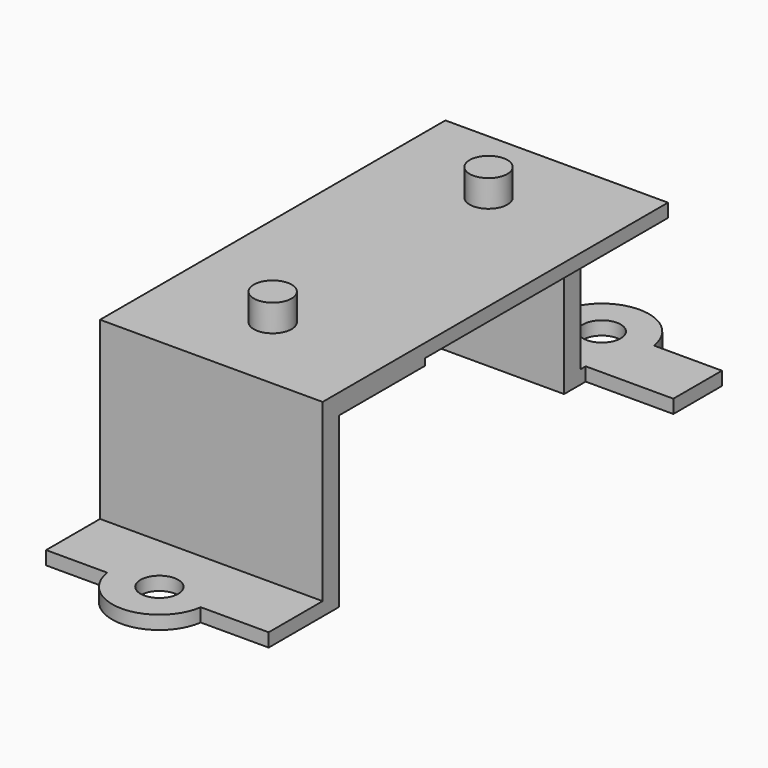
from build123d import *

# Parameters (mm, degrees)
CYLINDER100_R          = 1.5
CYLINDER100_DEPTH      = 10
CYLINDER103_R          = 1.5
CYLINDER103_DEPTH      = 5
CYLINDER104_R          = 1.5
CYLINDER104_DEPTH      = 10
CYLINDER102_R          = 3.5
CYLINDER102_DEPTH      = 5
BOX064_W               = 32
BOX064_H               = 13
BOX064_DEPTH           = 2
CYLINDER101_R          = 6.5
CYLINDER101_DEPTH      = 6
BOX063_W               = 23
BOX063_H               = 13
BOX063_DEPTH           = 24
CUT044_ROLL_ANGLE      = -90
CUT044_PLACEMENT_ANGLE = -90
CYLINDER086_R          = 1.4
CYLINDER086_DEPTH      = 4
BOX043_W               = 18
BOX043_H               = 29
BOX043_DEPTH           = 12.5
BOX044_W               = 18
BOX044_H               = 6
BOX044_DEPTH           = 17
BOX045_W               = 18
BOX045_H               = 6
BOX045_DEPTH           = 17
CYLINDER085_R          = 1.4
CYLINDER085_DEPTH      = 4
CYLINDER084_R          = 3.5
CYLINDER084_DEPTH      = 1
BOX042_W               = 16.5
BOX042_H               = 42
BOX042_DEPTH           = 14
CYLINDER021_R          = 1.4
CYLINDER021_DEPTH      = 2
CYLINDER022_R          = 1.4
CYLINDER022_DEPTH      = 2
BOX010_W               = 16
BOX010_H               = 32
BOX010_DEPTH           = 1
CYLINDER083_R          = 3.5
CYLINDER083_DEPTH      = 1


with BuildPart() as zylinder100:
    # Cylinder100 → Cylinder100 (new body)
    with BuildSketch(Plane(origin=(25.5, 6.5, 13), x_dir=(1, 0, 0), z_dir=(0, 0, 1))):
        Circle(CYLINDER100_R)
    extrude(amount=CYLINDER100_DEPTH)


with BuildPart() as zylinder103:
    # Cylinder103 → Cylinder103 (new body)
    with BuildSketch(Plane(origin=(16.5, 6.5, 30), x_dir=(1, 0, 0), z_dir=(0, 0, 1))):
        Circle(CYLINDER103_R)
    extrude(amount=CYLINDER103_DEPTH)


with BuildPart() as fusion061:
    # Cylinder104 → Cylinder104 (new body)
    with BuildSketch(Plane(origin=(-2.5, 6.5, 13), x_dir=(1, 0, 0), z_dir=(0, 0, 1))):
        Circle(CYLINDER104_R)
    extrude(amount=CYLINDER104_DEPTH)

    # Fusion061: union Zylinder100, Zylinder103
    add(zylinder100.part)
    add(zylinder103.part)


with BuildPart() as zylinder102:
    # Cylinder102 → Cylinder102 (new body)
    with BuildSketch(Plane(origin=(16.5, 6.5, 29), x_dir=(1, 0, 0), z_dir=(0, 0, 1))):
        Circle(CYLINDER102_R)
    extrude(amount=CYLINDER102_DEPTH)


with BuildPart() as obj1:
    # Box064 → Box064 (new body)
    with BuildSketch(Plane(origin=(-4.5, 0, 18), x_dir=(1, 0, 0), z_dir=(0, 0, 1))):
        with Locations((16, 6.5)):
            Rectangle(BOX064_W, BOX064_H)
    extrude(amount=BOX064_DEPTH)


with BuildPart() as zylinder101:
    # Cylinder101 → Cylinder101 (new body)
    with BuildSketch(Plane(origin=(16.5, 6.5, 23), x_dir=(1, 0, 0), z_dir=(0, 0, 1))):
        Circle(CYLINDER101_R)
    extrude(amount=CYLINDER101_DEPTH)


with BuildPart() as servo3_mask001:
    # Box063 → Box063 (new body)
    with BuildSketch(Plane.XY.offset(-1)):
        with Locations((11.5, 6.5)):
            Rectangle(BOX063_W, BOX063_H)
    extrude(amount=BOX063_DEPTH)

    # Fusion060: union Zylinder102, obj1, Zylinder101
    add(zylinder102.part)
    add(obj1.part)
    add(zylinder101.part)

    # Cut044: cut Fusion061
    add(fusion061.part, mode=Mode.SUBTRACT)


with BuildPart() as servo3_mask001_1:
    # Cut044 roll: moved
    add(servo3_mask001.part.rotate(Axis((0, 0, 0), (1, 0, 0)), CUT044_ROLL_ANGLE))


with BuildPart() as servo3_mask001_2:
    # Cut044 placement: moved
    add(servo3_mask001_1.part.moved(Location((-49.5, 16.5, 5))).rotate(Axis((-49.5, 16.5, 5), (0, 0, 1)), CUT044_PLACEMENT_ANGLE))


with BuildPart() as zylinder086:
    # Cylinder086 → Cylinder086 (new body)
    with BuildSketch(Plane(origin=(-52.5, 20.5, -9.5), x_dir=(1, 0, 0), z_dir=(0, 0, 1))):
        Circle(CYLINDER086_R)
    extrude(amount=CYLINDER086_DEPTH)


with BuildPart() as obj2:
    # Box043 → Box043 (new body)
    with BuildSketch(Plane(origin=(-61.5, -14.5, -8), x_dir=(1, 0, 0), z_dir=(0, 0, 1))):
        with Locations((9, 14.5)):
            Rectangle(BOX043_W, BOX043_H)
    extrude(amount=BOX043_DEPTH)


with BuildPart() as obj3:
    # Box044 → Box044 (new body)
    with BuildSketch(Plane(origin=(-61.5, -22, -7), x_dir=(1, 0, 0), z_dir=(0, 0, 1))):
        with Locations((9, 3)):
            Rectangle(BOX044_W, BOX044_H)
    extrude(amount=BOX044_DEPTH)


with BuildPart() as obj4:
    # Box045 → Box045 (new body)
    with BuildSketch(Plane(origin=(-61.5, 16, -7), x_dir=(1, 0, 0), z_dir=(0, 0, 1))):
        with Locations((9, 3)):
            Rectangle(BOX045_W, BOX045_H)
    extrude(amount=BOX045_DEPTH)


with BuildPart() as fusion093:
    # Cylinder085 → Cylinder085 (new body)
    with BuildSketch(Plane(origin=(-52.5, -20.5, -9.5), x_dir=(1, 0, 0), z_dir=(0, 0, 1))):
        Circle(CYLINDER085_R)
    extrude(amount=CYLINDER085_DEPTH)

    # Fusion047: union Zylinder086, obj2, obj3, obj4
    add(zylinder086.part)
    add(obj2.part)
    add(obj3.part)
    add(obj4.part)

    # Fusion093: union Servo3_mask001
    add(servo3_mask001_2.part)


with BuildPart() as zylinder084:
    # Cylinder084 → Cylinder084 (new body)
    with BuildSketch(Plane(origin=(-52.5, 20.5, -8), x_dir=(1, 0, 0), z_dir=(0, 0, 1))):
        Circle(CYLINDER084_R)
    extrude(amount=CYLINDER084_DEPTH)


with BuildPart() as obj5:
    # Box042 → Box042 (new body)
    with BuildSketch(Plane(origin=(-60.5, -21, -8), x_dir=(1, 0, 0), z_dir=(0, 0, 1))):
        with Locations((8.25, 21)):
            Rectangle(BOX042_W, BOX042_H)
    extrude(amount=BOX042_DEPTH)


with BuildPart() as zylinder021:
    # Cylinder021 → Cylinder021 (new body)
    with BuildSketch(Plane(origin=(16.5, 10, -26.5), x_dir=(1, 0, 0), z_dir=(0, 0, 1))):
        Circle(CYLINDER021_R)
    extrude(amount=CYLINDER021_DEPTH)


with BuildPart() as zylinder022:
    # Cylinder022 → Cylinder022 (new body)
    with BuildSketch(Plane(origin=(16.5, -10, -26.5), x_dir=(1, 0, 0), z_dir=(0, 0, 1))):
        Circle(CYLINDER022_R)
    extrude(amount=CYLINDER022_DEPTH)


with BuildPart() as fusion009:
    # Box010 → Box010 (new body)
    with BuildSketch(Plane(origin=(8.5, -16, -27.5), x_dir=(1, 0, 0), z_dir=(0, 0, 1))):
        with Locations((8, 16)):
            Rectangle(BOX010_W, BOX010_H)
    extrude(amount=BOX010_DEPTH)

    # Fusion009: union Zylinder021, Zylinder022
    add(zylinder021.part)
    add(zylinder022.part)


with BuildPart() as fusion009_1:
    # Fusion009 placement: moved
    add(fusion009.part.moved(Location((-69, 0, 32.5))))


with BuildPart() as cut082:
    # Cylinder083 → Cylinder083 (new body)
    with BuildSketch(Plane(origin=(-52.5, -20.5, -8), x_dir=(1, 0, 0), z_dir=(0, 0, 1))):
        Circle(CYLINDER083_R)
    extrude(amount=CYLINDER083_DEPTH)

    # Fusion046: union Zylinder084, obj5, Fusion009
    add(zylinder084.part)
    add(obj5.part)
    add(fusion009_1.part)

    # Cut082: cut Fusion093
    add(fusion093.part, mode=Mode.SUBTRACT)


with BuildPart() as cut082_1:
    # Cut082 placement: moved
    add(cut082.part.moved(Location((0, 0, 1))))


solid = cut082_1.part
